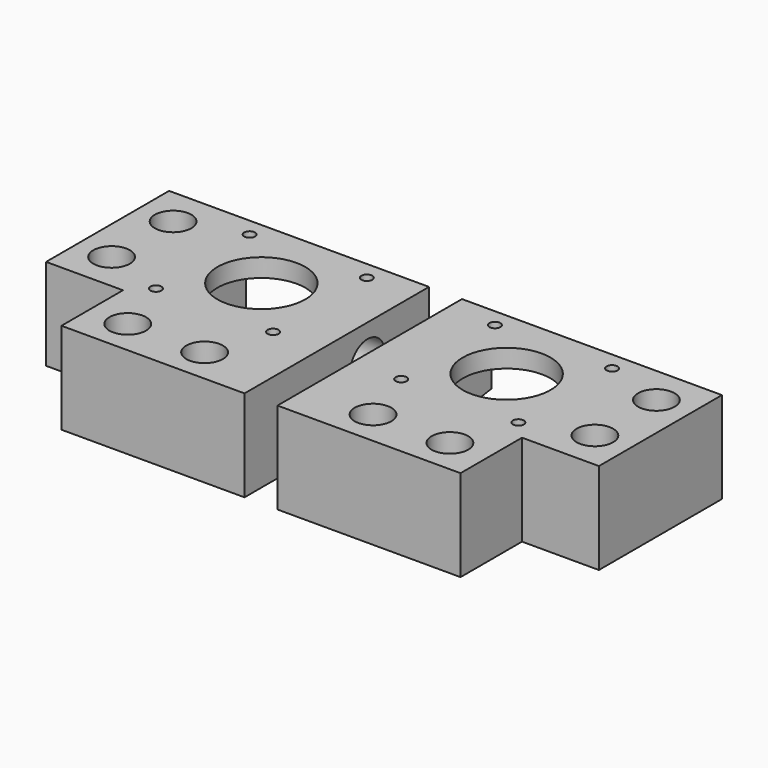
from build123d import *

# Parameters (mm, degrees)
F0_W      = 71
F0_H      = 63
F1_DEPTH  = 25
F2_W      = 21
F2_H      = 21
F3_DEPTH  = 25.001
F4_R      = 12
F5_DEPTH  = 25.001
F6_R      = 1.5
F7_DEPTH  = 25.001
F8_R      = 2.5
F9_DEPTH  = 25.001
F10_R     = 5
F11_DEPTH = 19
F13_DEPTH = 20
F14_R     = 6
F15_DEPTH = 8
F16_SIZE2 = 6
F16_SIZE  = 42


with BuildPart() as f1:
    # F0 (on Top) → F1 (new body)
    with BuildSketch(Plane.XY):
        Rectangle(F0_W, F0_H)
    extrude(amount=F1_DEPTH)

    # F2 (on face) → F3 (cut, through all)
    with BuildSketch(Plane.XY.offset(25)):
        with Locations((-25, -21)):
            Rectangle(F2_W, F2_H)
    extrude(amount=-F3_DEPTH, mode=Mode.SUBTRACT)

    # F4 (on Top) → F5 (cut, through all)
    with BuildSketch(Plane.XY):
        with Locations((6.5, 10.5)):
            Circle(F4_R)
    extrude(amount=F5_DEPTH, mode=Mode.SUBTRACT)

    # F6 (on Top) → F7 (cut, through all)
    with BuildSketch(Plane.XY):
        with Locations((22.5, 26.5)):
            Circle(F6_R)
        with Locations((22.5, -5.5)):
            Circle(F6_R)
        with Locations((-9.5, -5.5)):
            Circle(F6_R)
        with Locations((-9.5, 26.5)):
            Circle(F6_R)
    extrude(amount=F7_DEPTH, mode=Mode.SUBTRACT)

    # F8 (on Top) → F9 (cut, through all)
    with BuildSketch(Plane.XY):
        with Locations((-26, 21)):
            Circle(F8_R)
        with Locations((-26, 0)):
            Circle(F8_R)
        with Locations((-4, -22)):
            Circle(F8_R)
        with Locations((17, -22)):
            Circle(F8_R)
    extrude(amount=F9_DEPTH, mode=Mode.SUBTRACT)

    # F10 (on face) → F11 (cut)
    with BuildSketch(Plane.XY.offset(25)):
        with Locations((17, -22)):
            Circle(F10_R)
        with Locations((-4, -22)):
            Circle(F10_R)
        with Locations((-26, 0)):
            Circle(F10_R)
        with Locations((-26, 21)):
            Circle(F10_R)
    extrude(amount=-F11_DEPTH, mode=Mode.SUBTRACT)

    # F12 (on face) → F13 (cut)
    with BuildSketch(Plane(origin=(0, 0, 0), x_dir=(1, 0, 0), z_dir=(0, 0, -1))):
        Polygon((-14.5, -31.5), (27.5, -31.5), (27.5, 7.5), (24.5, 10.5), (-11.5, 10.5), (-14.5, 7.5), align=None)
    extrude(amount=-F13_DEPTH, mode=Mode.SUBTRACT)

    # F14 (on face) → F15 (cut, through all)
    with BuildSketch(Plane.YZ.offset(35.5)):
        with Locations((10.5, 15)):
            Circle(F14_R)
    extrude(amount=-F15_DEPTH, mode=Mode.SUBTRACT)

    # F16
    f16_edges = [f1.edges().sort_by_distance(p)[0] for p in [
        (31.5, 31.5, 0),
    ]]
    f16_side = f1.faces().sort_by_distance((-13.55079, -21, 0))[0]
    chamfer(f16_edges, length=F16_SIZE, length2=F16_SIZE2, reference=f16_side)


with BuildPart() as f18_1:
    # F18: instance of F1
    add(f1.part.mirror(Plane.YZ.offset(40)))


solid = Compound([f1.part, f18_1.part])
